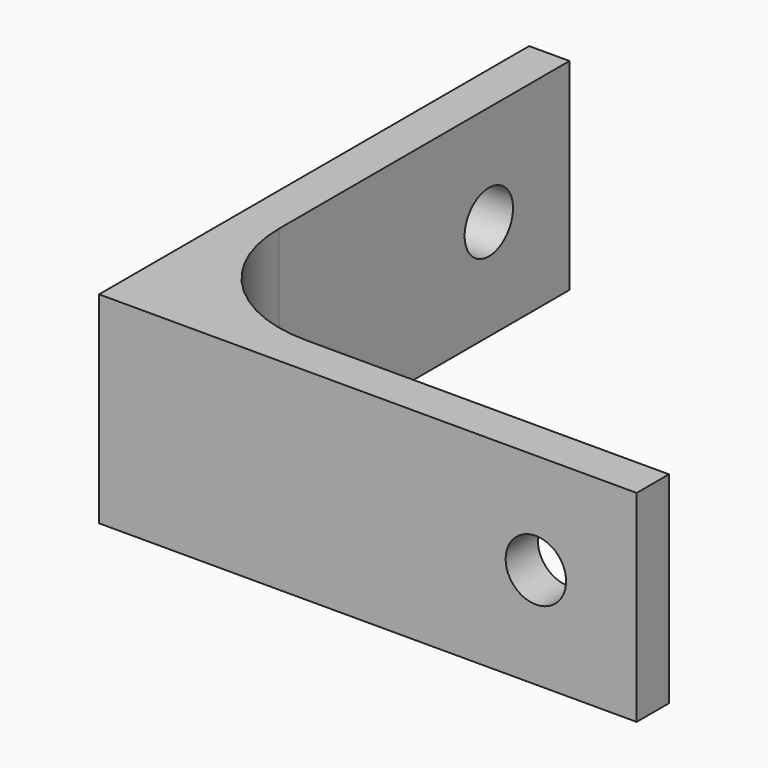
from build123d import *

# Parameters (mm, degrees)
F0_W     = 37
F0_H     = 3
F1_DEPTH = 15
F6_D     = 4.5
F7_D     = 4.5
F5_R     = 10


with BuildPart() as f1:
    # F0 (on Top) → F1 (new body)
    with BuildSketch(Plane.XY):
        Polygon((-23.234105, 31.848193), (-26.234105, 31.848193), (-26.234105, -8.151807), (-23.234105, -8.151807), (-23.234105, -5.151807), align=None)
        with Locations((-4.734105, -6.651807)):
            Rectangle(F0_W, F0_H)
    extrude(amount=F1_DEPTH)

    # F6 (through all)
    with Locations(Plane(origin=(-26.234105, 0, 0), x_dir=(0, -1, 0), z_dir=(-1, 0, 0))):
        with Locations((-24.348193, 7.5)):
            Hole(F6_D / 2)

    # F7 (through all)
    with Locations(Plane.XZ.offset(8.151807)):
        with Locations((6.265895, 7.5)):
            Hole(F7_D / 2)

    # F5
    f5_edges = [f1.edges().sort_by_distance(p)[0] for p in [
        (-23.234105, -5.151807, 7.5),
    ]]
    fillet(f5_edges, radius=F5_R)


solid = f1.part
